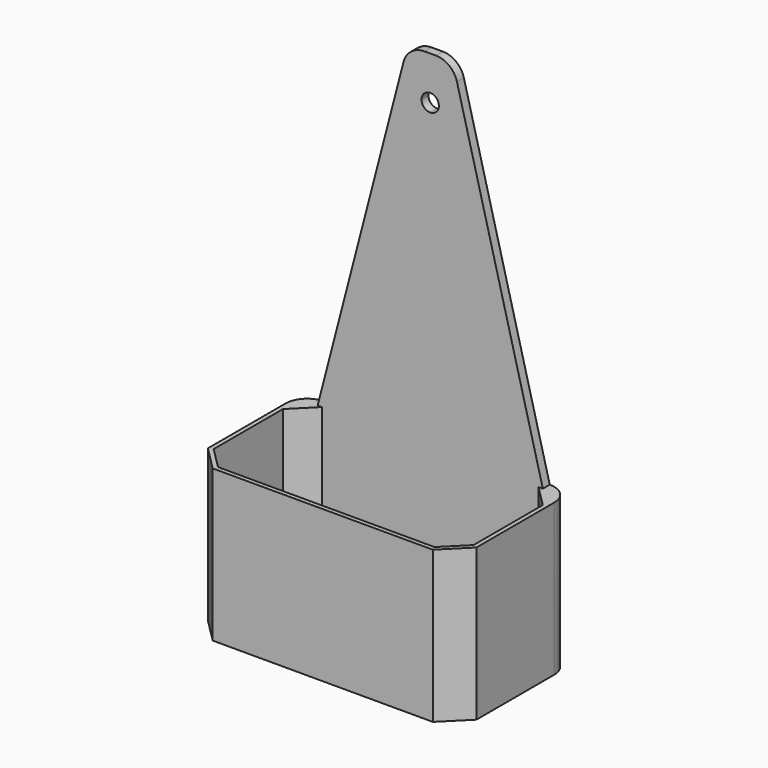
from build123d import *

# Parameters (mm, degrees)
F0_W     = 23
F0_H     = 12
F1_DEPTH = 2
F3_DEPTH = 35
F5_DEPTH = 2


with BuildPart() as f1:
    # F0 (on Top) → F1 (new body)
    with BuildSketch(Plane.XY):
        Polygon((0, 5), (5, 0), (55, 0), (60, 5), (60, 25), (55, 30), (5, 30), (0, 25), align=None)
        with Locations((30, 16.8)):
            Rectangle(F0_W, F0_H, mode=Mode.SUBTRACT)
    extrude(amount=F1_DEPTH)

    # F2 (on face) → F3 (join)
    with BuildSketch(Plane(origin=(0, 0, 0), x_dir=(1, 0, 0), z_dir=(0, 0, -1))):
        with BuildLine():
            Line((61, -27), (61, -4.585786))
            Line((61, -4.585786), (55.414214, 1))
            Line((55.414214, 1), (4.585786, 1))
            Line((4.585786, 1), (-1, -4.585786))
            Line((-1, -4.585786), (-1, -27))
            ThreePointArc((-1, -27), (0.464466, -30.535534), (4, -32))
            Line((4, -32), (56, -32))
            ThreePointArc((56, -32), (59.535534, -30.535534), (61, -27))
        make_face()
        Polygon((5, -30), (0, -25), (0, -5), (5, 0), (55, 0), (60, -5), (60, -25), (55, -30), align=None, mode=Mode.SUBTRACT)
    extrude(amount=-F3_DEPTH)

    # F4 (on face) → F5 (join)
    with BuildSketch(Plane(origin=(0, 32, 0), x_dir=(-1, 0, 0), z_dir=(0, 1, 0))):
        with BuildLine():
            Line((-56, 35), (-30, 35))
            Line((-30, 35), (-30, 103))
            ThreePointArc((-30, 103), (-32, 105), (-30, 107))
            Line((-30, 107), (-30, 115))
            Line((-30, 115), (-31.333763, 115))
            ThreePointArc((-31.333763, 115), (-34.392289, 113.95543), (-36.172876, 111.258169))
            Line((-36.172876, 111.258169), (-56, 35))
        make_face()
        with BuildLine():
            Line((-30, 103), (-30, 35))
            Line((-30, 35), (-4, 35))
            Line((-4, 35), (-23.827124, 111.258169))
            ThreePointArc((-23.827124, 111.258169), (-25.607711, 113.95543), (-28.666237, 115))
            Line((-28.666237, 115), (-30, 115))
            Line((-30, 115), (-30, 107))
            ThreePointArc((-30, 107), (-28.585786, 106.414214), (-28, 105))
            ThreePointArc((-28, 105), (-28.585786, 103.585786), (-30, 103))
        make_face()
    extrude(amount=-F5_DEPTH)


solid = f1.part
